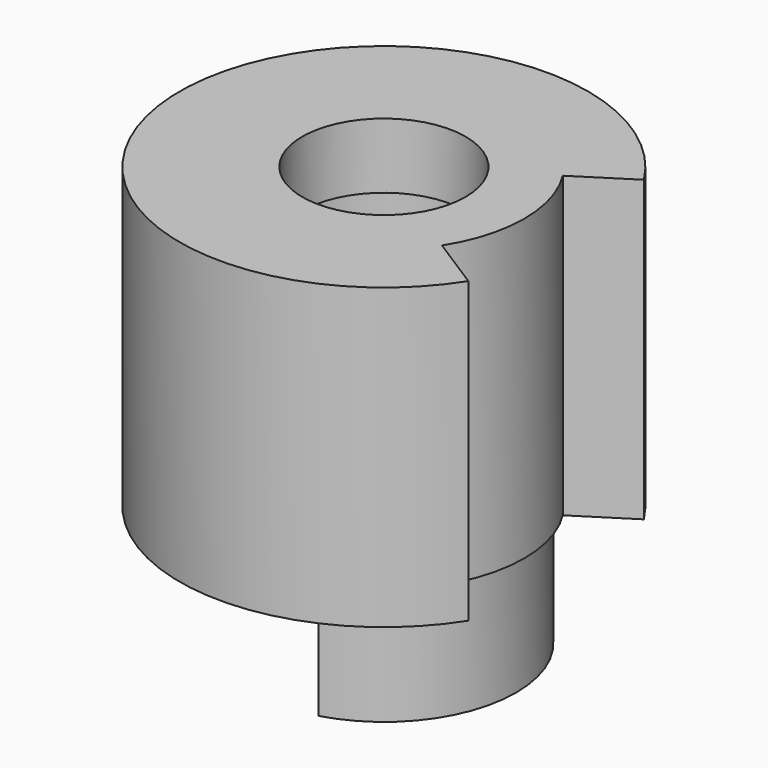
from build123d import *

# Parameters (mm, degrees)
PAD021_DEPTH = 7.4
PAD022_DEPTH = 10.8
SKETCH051_R  = 6.1
PAD023_DEPTH = 3.5
SKETCH052_R  = 5
PAD024_DEPTH = 4


with BuildPart() as part:
    # Sketch049 → Pad021 (new body)
    with BuildSketch(Plane.XY):
        with BuildLine():
            ThreePointArc((2.2326625821, -7.7862197371), (8.1, 0), (2.2326625821, 7.7862197371))
            Line((1.7916428128, 6.2482010236), (2.2326625821, 7.7862197371))
            ThreePointArc((1.7916428128, -6.2482010236), (6.5, 0), (1.7916428128, 6.2482010236))
            Line((1.7916428128, -6.2482010236), (2.2326625821, -7.7862197371))
        make_face()
    extrude(amount=PAD021_DEPTH)

    # Sketch050 (on Face6 of Pad021) → Pad022 (join)
    with BuildSketch(Plane.XY.offset(7.4)):
        with BuildLine():
            ThreePointArc((10.5423930727, 6.7162451043), (-12.5, 0), (10.5423930727, -6.7162451043))
            Line((10.5423930727, -6.7162451043), (7.253166434, -4.6207766318))
            ThreePointArc((7.253166434, -4.6207766318), (8.6, 0), (7.253166434, 4.6207766318))
            Line((10.5423930727, 6.7162451043), (7.253166434, 4.6207766318))
        make_face()
        with BuildLine():
            ThreePointArc((2.4256087312, 8.4591029243), (-8.8, 0), (2.4256087312, -8.4591029243))
            Line((1.7916428128, -6.2482010236), (2.4256087312, -8.4591029243))
            ThreePointArc((1.7916428128, -6.2482010236), (6.5, 0), (1.7916428128, 6.2482010236))
            Line((1.7916428128, 6.2482010236), (2.4256087312, 8.4591029243))
        make_face(mode=Mode.SUBTRACT)
    extrude(amount=PAD022_DEPTH)

    # Sketch051 (on Face10 of Pad022) → Pad023 (join)
    with BuildSketch(Plane.XY.offset(18.2)):
        with BuildLine():
            ThreePointArc((10.5423930727, 6.7162451043), (-12.5, 0), (10.5423930727, -6.7162451043))
            Line((10.5423930727, -6.7162451043), (7.253166434, -4.6207766318))
            ThreePointArc((7.253166434, -4.6207766318), (8.6, 0), (7.253166434, 4.6207766318))
            Line((10.5423930727, 6.7162451043), (7.253166434, 4.6207766318))
        make_face()
        Circle(SKETCH051_R, mode=Mode.SUBTRACT)
    extrude(amount=PAD023_DEPTH)

    # Sketch052 (on Face21 of Pad023) → Pad024 (join)
    with BuildSketch(Plane.XY.offset(21.7)):
        with BuildLine():
            ThreePointArc((10.5423930727, 6.7162451043), (-12.5, 0), (10.5423930727, -6.7162451043))
            Line((10.5423930727, -6.7162451043), (7.253166434, -4.6207766318))
            ThreePointArc((7.253166434, -4.6207766318), (8.6, 0), (7.253166434, 4.6207766318))
            Line((10.5423930727, 6.7162451043), (7.253166434, 4.6207766318))
        make_face()
        Circle(SKETCH052_R, mode=Mode.SUBTRACT)
    extrude(amount=PAD024_DEPTH)


with BuildPart() as part_1:
    # Body006 placement: moved
    add(part.part.moved(Location((0, 0, 2.2))))


solid = part_1.part
